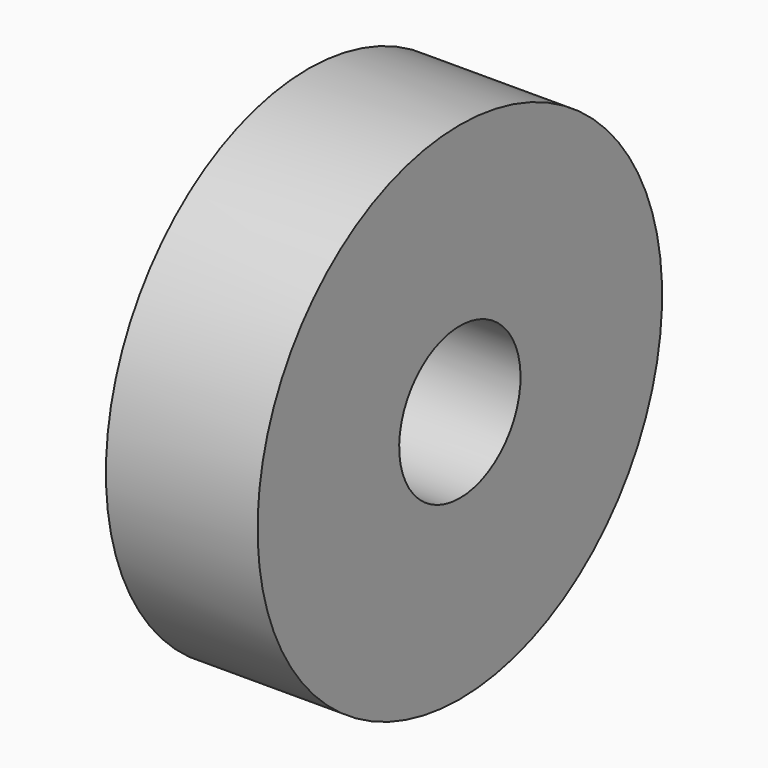
from build123d import *

# Parameters (mm, degrees)
CYLINDER345_R     = 1.5
CYLINDER345_DEPTH = 3
CYLINDER344_R     = 5
CYLINDER344_DEPTH = 3


with BuildPart() as cylinder345:
    # Cylinder345 → Cylinder345 (new body)
    with BuildSketch(Plane(origin=(-14.6, -89, 72), x_dir=(0, 0, -1), z_dir=(1, 0, 0))):
        Circle(CYLINDER345_R)
    extrude(amount=CYLINDER345_DEPTH)


with BuildPart() as bearing_arm:
    # Cylinder344 → Cylinder344 (new body)
    with BuildSketch(Plane(origin=(-14.6, -89, 72), x_dir=(0, 0, -1), z_dir=(1, 0, 0))):
        Circle(CYLINDER344_R)
    extrude(amount=CYLINDER344_DEPTH)

    # Cut363: cut Cylinder345
    add(cylinder345.part, mode=Mode.SUBTRACT)


solid = bearing_arm.part
